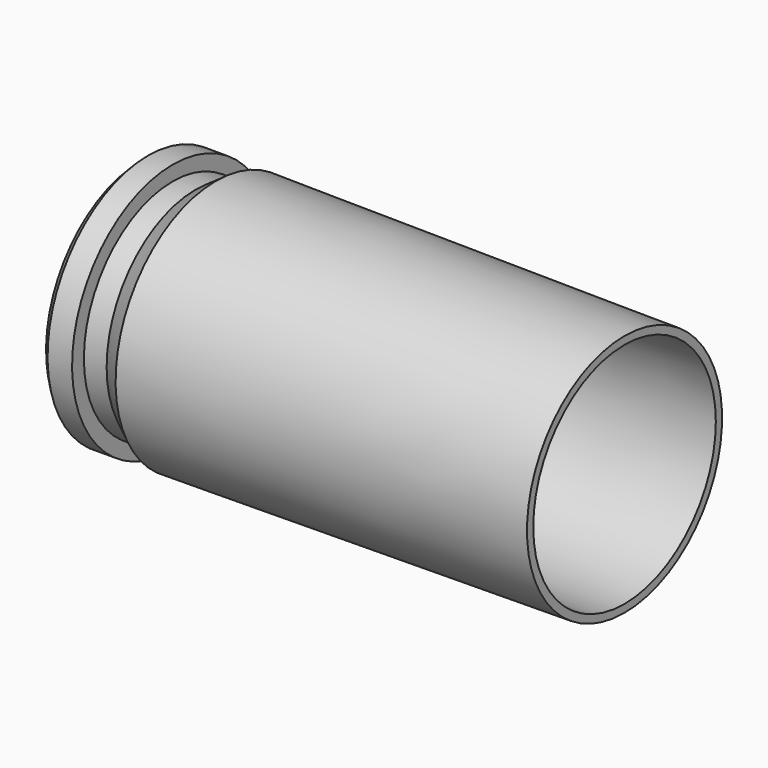
from build123d import *

# Parameters (mm, degrees)
F2_R     = 2.1971
F2_R_2   = 0.5
F3_DEPTH = 2.9718


with BuildPart() as f1:
    # F0 (on Front) → F1 (revolve)
    with BuildSketch(Plane.XZ):
        Polygon((0, 4.68), (0, 0.5), (3.81, 0.5), (3.91, 4.395), (19.15, 4.515), (19.15, 4.825), (2.98, 4.965), (2.17, 4.395), (1.27, 4.395), (1.27, 4.98), (0.3, 4.98), align=None)
    revolve(axis=Axis((19.694996, 0, 0), (1, 0, 0)))

    # F2 (on face) → F3 (cut)
    with BuildSketch(Plane(origin=(0, 0, 0), x_dir=(0, -1, 0), z_dir=(-1, 0, 0))):
        Circle(F2_R)
        Circle(F2_R_2, mode=Mode.SUBTRACT)
    extrude(amount=-F3_DEPTH, mode=Mode.SUBTRACT)


solid = f1.part
